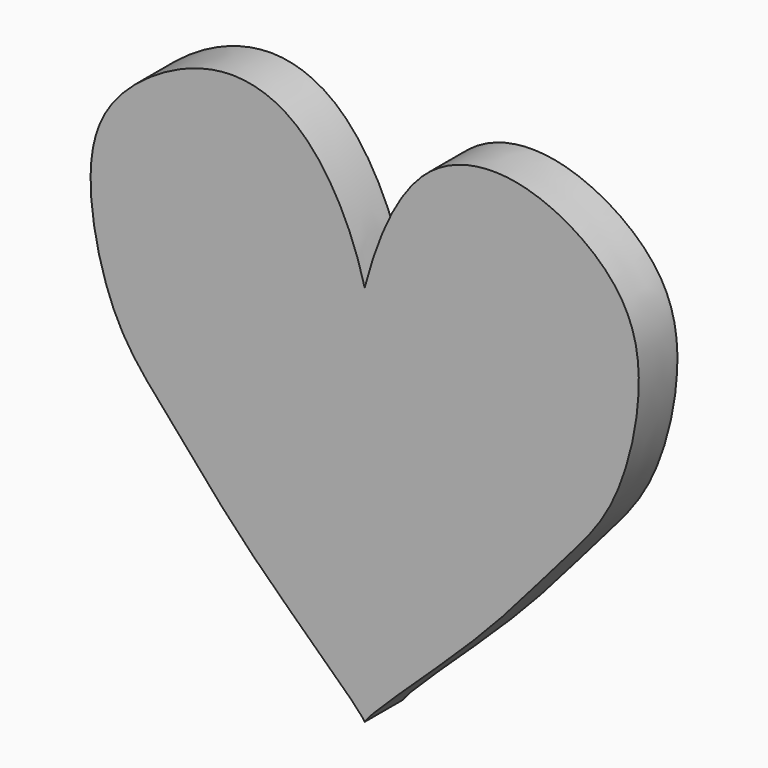
from build123d import *

# Parameters (mm, degrees)
F1_DEPTH = 8.89


with BuildPart() as f1:
    # F0 (on Front) → F1 (new body)
    with BuildSketch(Plane.XZ):
        with BuildLine():
            add(Edge.make_bspline(
                [(0.0562144718, 12.1372868188), (2.3519074725, 20.9438238166), (8.7460511995, 36.3255138099), (26.6396075922, 40.526418146), (43.4284517648, 32.3301275689), (53.0365612832, 18.245741223), (47.4744564312, -8.484214367), (35.6791954396, -20.6682438297), (22.271181512, -37.6338386949), (1.2300235612, -56.1550780409), (0.0574891655, -58.2599759082)],
                knots=[0, 0, 0, 0, 0.1334920413, 0.2400309268, 0.3521533097, 0.4590894201, 0.5938444531, 0.7025908162, 0.8355735517, 0.9771775563, 0.9771775563, 0.9771775563, 0.9771775563], degree=3))
            add(Edge.make_bspline(
                [(0.0562144718, 12.1372868188), (-2.2445402923, 20.9632413109), (-9.7675439936, 35.4838577493), (-26.3869099211, 40.8015959087), (-43.3712747526, 32.24957842), (-52.9011706239, 18.274204153), (-47.364247084, -8.4907256836), (-35.5625280032, -20.6663525195), (-22.1579161397, -37.6339730723), (-1.1122181114, -56.1562847639), (0.0574891655, -58.2599759082)],
                knots=[0, 0, 0, 0, 0.1337863773, 0.2385689745, 0.3509673467, 0.4580992197, 0.5931009421, 0.7020463819, 0.8352725623, 0.9771357943, 0.9771357943, 0.9771357943, 0.9771357943], degree=3))
        make_face()
    extrude(amount=F1_DEPTH)


solid = f1.part
